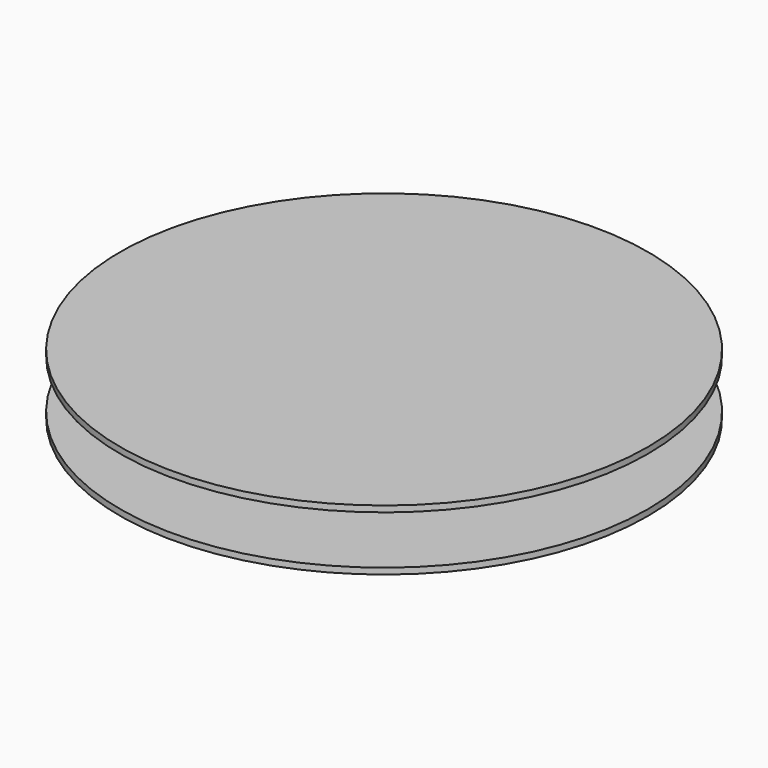
from build123d import *

# Parameters (mm, degrees)
F0_R     = 11.7
F0_R_2   = 9.6
F1_DEPTH = 5
F0_R_3   = 21.7
F2_DEPTH = 0.5
F3_START = 4.5
F3_DEPTH = 0.5
F4_START = 4
F4_DEPTH = 1


with BuildPart() as f1:
    # F0 (on Top) → F1 (new body)
    with BuildSketch(Plane.XY):
        Circle(F0_R)
        Circle(F0_R_2, mode=Mode.SUBTRACT)
    extrude(amount=F1_DEPTH)

    # F0 (on Top) → F2 (join)
    with BuildSketch(Plane.XY):
        Circle(F0_R_3)
        Circle(F0_R, mode=Mode.SUBTRACT)
    extrude(amount=F2_DEPTH)

    # F0 (on Top) → F3 (join)
    with BuildSketch(Plane.XY.offset(F3_START)):
        Circle(F0_R_3)
        Circle(F0_R, mode=Mode.SUBTRACT)
    extrude(amount=F3_DEPTH)

    # F0 (on Top) → F4 (join)
    with BuildSketch(Plane.XY.offset(F4_START)):
        Circle(F0_R_2)
    extrude(amount=F4_DEPTH)


solid = f1.part
